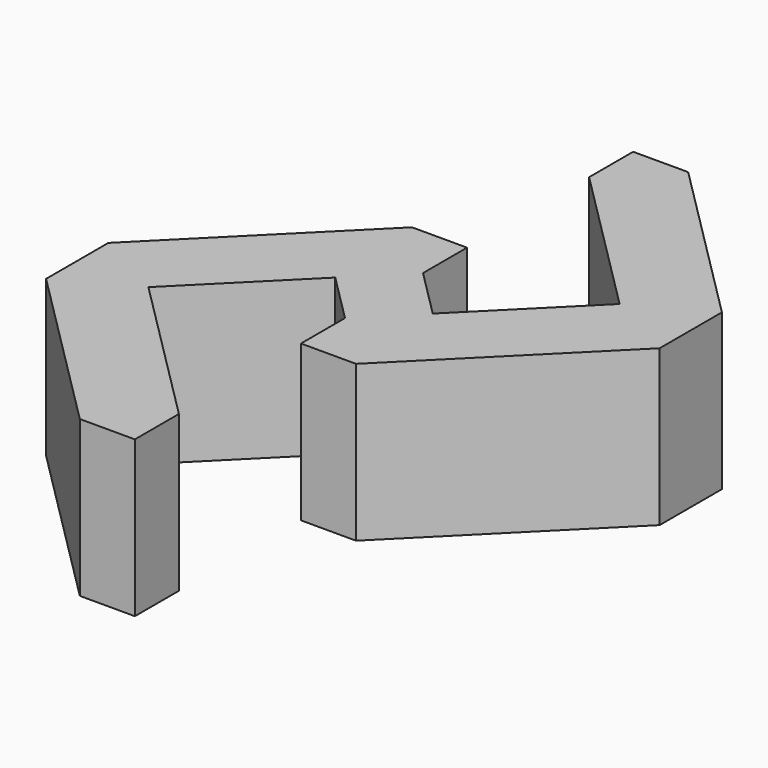
from build123d import *

# Parameters (mm, degrees)
F1_DEPTH = 8


with BuildPart() as f1:
    # F0 (on Top) → F1 (new body)
    with BuildSketch(Plane.XY):
        Polygon((2.828427, 0), (0, 0), (0, -2.828427), (7.83824, -10.666667), (2.504906, -16), (0, -18.504906), (0, -21.333333), (2.828427, -21.333333), (11.495094, -12.666667), (11.495094, -8.666667), align=None)
        Polygon((0, -18.504906), (2.504906, -16), (0, -13.495094), (-2.504906, -16), align=None)
        Polygon((-2.504906, -16), (0, -13.495094), (0, -10.666667), (-2.828427, -10.666667), (-11.495094, -19.333333), (-11.495094, -23.333333), (-2.828427, -32), (0, -32), (0, -29.171573), (-7.83824, -21.333333), align=None)
    extrude(amount=F1_DEPTH)


solid = f1.part
